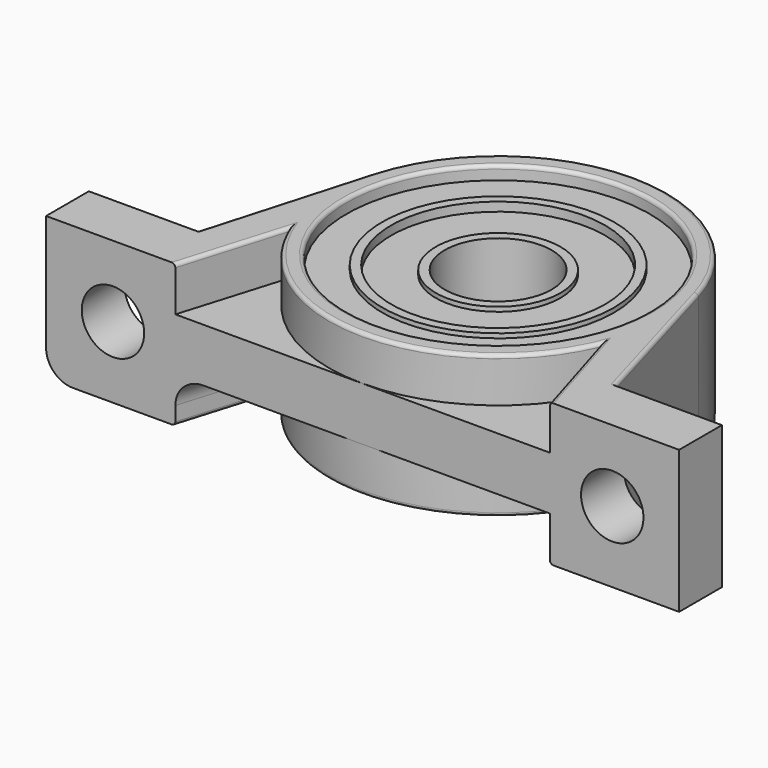
from build123d import *

# Parameters (mm, degrees)
SKETCH_R        = 17
PAD_DEPTH       = 8
POCKET_DEPTH    = 5
SKETCH002_R     = 3.5
POCKET001_DEPTH = 6
FILLET_R        = 0.4
FILLET001_R     = 3
SKETCH003_R     = 17
SKETCH003_R_2   = 13
PAD001_DEPTH    = 6.5
SKETCH004_R     = 13
SKETCH004_R_2   = 12
PAD002_DEPTH    = 7
SKETCH005_R     = 12
SKETCH005_R_2   = 7
PAD003_DEPTH    = 6
SKETCH006_R     = 7
SKETCH006_R_2   = 6
PAD004_DEPTH    = 6.5


with BuildPart() as body:
    # Sketch → Pad (new body, symmetric)
    with BuildSketch(Plane.XY):
        with BuildLine():
            Line((-35.5, 0), (-35.5, 6))
            Line((-35.5, 6), (-23.5, 6))
            Line((-23.5, 6), (-18.262215, 24.243235))
            ThreePointArc((18.262215, 24.243235), (0, 38), (-18.262215, 24.243235))
            Line((23.5, 6), (18.262215, 24.243235))
            Line((35.5, 6), (23.5, 6))
            Line((35.5, 0), (35.5, 6))
            Line((-35.5, 0), (35.5, 0))
        make_face()
        with Locations((0, 19)):
            Circle(SKETCH_R, mode=Mode.SUBTRACT)
    extrude(amount=PAD_DEPTH, both=True)

    # Sketch001 (on Face11 of Pad) → Pocket (cut)
    with BuildSketch(Plane.XY.offset(8)):
        with BuildLine():
            Line((17.5, 11.600676), (21, 0))
            Line((21, -2), (21, 0))
            Line((-21, -2), (21, -2))
            Line((-21, 0), (-21, -2))
            Line((-17.5, 11.600676), (-21, 0))
            ThreePointArc((-17.5, 11.600676), (0, 0), (17.5, 11.600676))
        make_face()
    pocket = extrude(amount=-POCKET_DEPTH, mode=Mode.SUBTRACT)

    # Mirrored: Pocket across XY
    add(pocket.mirror(Plane.XY), mode=Mode.SUBTRACT)

    # Sketch002 (on Face2 of Mirrored) → Pocket001 (cut)
    with BuildSketch(Plane.XZ):
        with Locations((-28, 0)):
            Circle(SKETCH002_R)
    pocket001 = extrude(amount=-POCKET001_DEPTH, mode=Mode.SUBTRACT)

    # Mirrored001: Pocket001 across YZ
    add(pocket001.mirror(Plane.YZ), mode=Mode.SUBTRACT)

    # Fillet
    fillet_edges = [body.edges().sort_by_distance(p)[0] for p in [
        (-20.881107, 15.121617, 8),
        (-20.881107, 15.121617, -8),
        (20.881107, 15.121617, 8),
        (20.881107, 15.121617, -8),
        (19.25, 5.800338, -8),
        (19.25, 5.800338, 8),
        (-19.25, 5.800338, -8),
        (-19.25, 5.800338, 8),
        (-10.497925, 3.163536, 8),
        (10.497925, 3.163536, -8),
        (-17, 19, 8),
        (-17, 19, -8),
    ]]
    fillet(fillet_edges, radius=FILLET_R)

    # Fillet001
    fillet001_edges = [body.edges().sort_by_distance(p)[0] for p in [
        (-17.4, 19, 8),
        (20.480794, 15.066425, -8),
        (-35.5, 3, -8),
        (-19.25, 5.800338, -3),
    ]]
    fillet(fillet001_edges, radius=FILLET001_R)


with BuildPart() as body001:
    # Sketch003 → Pad001 (new body, symmetric)
    with BuildSketch(Plane(origin=(0, 19, 0), x_dir=(1, 0, 0), z_dir=(0, 0, 1))):
        Circle(SKETCH003_R)
        Circle(SKETCH003_R_2, mode=Mode.SUBTRACT)
    extrude(amount=PAD001_DEPTH, both=True)


with BuildPart() as body002:
    # Sketch004 → Pad002 (new body, symmetric)
    with BuildSketch(Plane(origin=(0, 19, 0), x_dir=(1, 0, 0), z_dir=(0, 0, 1))):
        Circle(SKETCH004_R)
        Circle(SKETCH004_R_2, mode=Mode.SUBTRACT)
    extrude(amount=PAD002_DEPTH, both=True)


with BuildPart() as body003:
    # Sketch005 → Pad003 (new body, symmetric)
    with BuildSketch(Plane(origin=(0, 19, 0), x_dir=(1, 0, 0), z_dir=(0, 0, 1))):
        Circle(SKETCH005_R)
        Circle(SKETCH005_R_2, mode=Mode.SUBTRACT)
    extrude(amount=PAD003_DEPTH, both=True)


with BuildPart() as body004:
    # Sketch006 → Pad004 (new body, symmetric)
    with BuildSketch(Plane(origin=(0, 19, 0), x_dir=(1, 0, 0), z_dir=(0, 0, 1))):
        Circle(SKETCH006_R)
        Circle(SKETCH006_R_2, mode=Mode.SUBTRACT)
    extrude(amount=PAD004_DEPTH, both=True)


solid = Compound([body.part, body001.part, body002.part, body003.part, body004.part])
